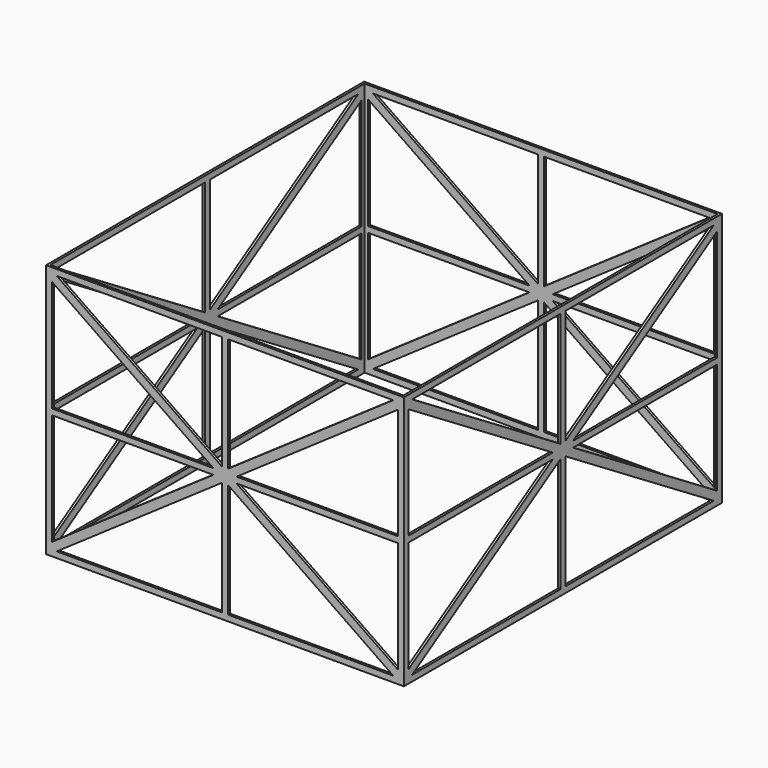
from build123d import *

# Parameters (mm, degrees)
F0_W     = 180
F0_H     = 200
F0_W_2   = 177.6
F0_H_2   = 197.6
F1_DEPTH = 128
F3_DEPTH = 200.001
F5_DEPTH = 180.001


with BuildPart() as f1:
    # F0 (on Top) → F1 (new body)
    with BuildSketch(Plane.XY):
        with Locations((90, 100)):
            Rectangle(F0_W, F0_H)
        with Locations((90, 100)):
            Rectangle(F0_W_2, F0_H_2, mode=Mode.SUBTRACT)
    extrude(amount=F1_DEPTH)

    # F2 (on face) → F3 (cut, through all)
    with BuildSketch(Plane.XZ):
        Polygon((3, 121.5662565704), (3, 65.5), (84.1574190597, 65.5), align=None)
        Polygon((5.3721446832, 125), (88.5, 67.5725002305), (88.5, 125), align=None)
        Polygon((91.5, 125), (91.5, 67.5725002305), (174.6278553168, 125), align=None)
        Polygon((177, 121.5662565704), (95.8425809403, 65.5), (177, 65.5), align=None)
        Polygon((177, 62.5), (95.8425809403, 62.5), (177, 6.4337434296), align=None)
        Polygon((91.5, 60.4274997695), (91.5, 3), (174.6278553168, 3), align=None)
        Polygon((88.5, 60.4274997695), (5.3721446832, 3), (88.5, 3), align=None)
        Polygon((3, 62.5), (3, 6.4337434296), (84.1574190597, 62.5), align=None)
    extrude(amount=-F3_DEPTH, mode=Mode.SUBTRACT)

    # F4 (on face) → F5 (cut, through all)
    with BuildSketch(Plane.YZ.offset(180)):
        Polygon((3, 121.4871826042), (3, 65.5), (93.6430126453, 65.5), align=None)
        Polygon((5.1697507977, 125), (98.5, 67.3530005007), (98.5, 125), align=None)
        Polygon((101.5, 125), (101.5, 67.3530005007), (194.8302492023, 125), align=None)
        Polygon((197, 121.4871826042), (106.3569873547, 65.5), (197, 65.5), align=None)
        Polygon((197, 62.5), (106.3569873547, 62.5), (197, 6.5128173958), align=None)
        Polygon((101.5, 60.6469994993), (101.5, 3), (194.8302492023, 3), align=None)
        Polygon((98.5, 60.6469994993), (5.1697507977, 3), (98.5, 3), align=None)
        Polygon((3, 62.5), (3, 6.5128173958), (93.6430126453, 62.5), align=None)
    extrude(amount=-F5_DEPTH, mode=Mode.SUBTRACT)


solid = f1.part
